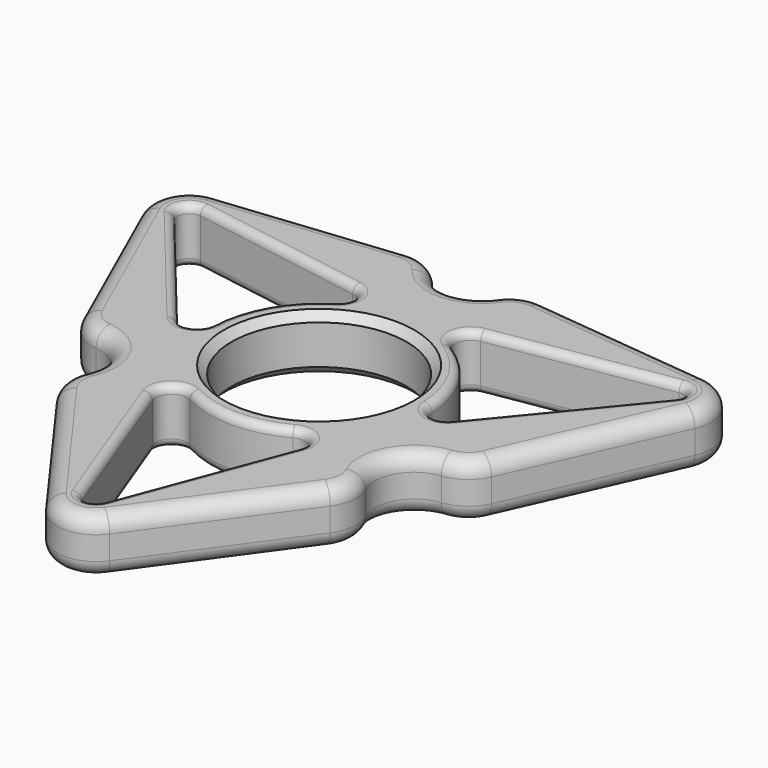
from build123d import *

# Parameters (mm, degrees)
F1_DEPTH = 7
F2_R     = 11.15
F3_DEPTH = 7.001
F4_R     = 5
F6_DEPTH = 7.001
F8_R     = 2
F9_DEPTH = 7.0010001
F10_R    = 1
F11_SIZE = 1


with BuildPart() as f1:
    # F0 (on Top) → F1 (new body)
    with BuildSketch(Plane.XY):
        Polygon((0, 26), (-38.1051177665, 22), (38.1051177665, 22), align=None)
        Polygon((38.1051177665, 22), (-38.1051177665, 22), (0, -44), align=None)
        Polygon((0, -44), (-38.1051177665, 22), (-22.5166604984, -13), align=None)
        Polygon((22.5166604984, -13), (38.1051177665, 22), (0, -44), align=None)
    extrude(amount=F1_DEPTH)

    # F2 (on face) → F3 (cut, through all)
    with BuildSketch(Plane.XY.offset(7)):
        Circle(F2_R)
    extrude(amount=-F3_DEPTH, mode=Mode.SUBTRACT)

    # F4
    f4_edges = [f1.edges().sort_by_distance(p)[0] for p in [
        (0, -44, 3.5),
        (-38.105118, 22, 3.5),
        (38.105118, 22, 3.5),
    ]]
    fillet(f4_edges, radius=F4_R)

    # F5 (on face) → F6 (cut, through all)
    with BuildSketch(Plane.XY.offset(7)):
        with BuildLine():
            ThreePointArc((-8.612929891, 25.095876838), (-6.0566570255, 24.6906622679), (-4.04546707, 23.0615997234))
            ThreePointArc((-4.04546707, 23.0615997234), (0, 21), (4.04546707, 23.0615997234))
            ThreePointArc((4.04546707, 23.0615997234), (6.0566570255, 24.6906622679), (8.612929891, 25.095876838))
            Line((8.612929891, 25.095876838), (0, 26))
            Line((0, 26), (-8.612929891, 25.095876838))
        make_face()
        with BuildLine():
            Line((-22.5166604984, -13), (-17.4272019264, -20.0069545056))
            ThreePointArc((-17.4272019264, -20.0069545056), (-18.3544122475, -17.5905499801), (-17.9491976774, -15.0342771145))
            ThreePointArc((-17.9491976774, -15.0342771145), (-18.1865334795, -10.5), (-21.9946647474, -8.0273226089))
            ThreePointArc((-21.9946647474, -8.0273226089), (-24.411069273, -7.1001122878), (-26.0401318175, -5.0889223323))
            Line((-26.0401318175, -5.0889223323), (-22.5166604984, -13))
        make_face()
        with BuildLine():
            Line((22.5166604984, -13), (26.0401318175, -5.0889223323))
            ThreePointArc((26.0401318175, -5.0889223323), (24.411069273, -7.1001122878), (21.9946647474, -8.0273226089))
            ThreePointArc((21.9946647474, -8.0273226089), (18.1865334795, -10.5), (17.9491976774, -15.0342771145))
            ThreePointArc((17.9491976774, -15.0342771145), (18.3544122475, -17.5905499801), (17.4272019264, -20.0069545056))
            Line((17.4272019264, -20.0069545056), (22.5166604984, -13))
        make_face()
    extrude(amount=-F6_DEPTH, mode=Mode.SUBTRACT)

    # F8
    f8_edges = [f1.edges().sort_by_distance(p)[0] for p in [
        (-35.067074, 20.245985, 0),
        (-31.258943, 22.718662, 3.5),
        (-35.30441, 15.711707, 3.5),
        (-35.067074, 20.245985, 7),
        (-30.672271, 5.311393, 0),
        (-26.040132, -5.088922, 3.5),
        (-30.672271, 5.311393, 7),
        (-24.411069, -7.100112, 7),
        (-24.411069, -7.100112, 0),
        (-21.994665, -8.027323, 3.5),
        (-18.186533, -10.5, 7),
        (-18.186533, -10.5, 0),
        (-17.949198, -15.034277, 3.5),
        (-18.354412, -17.59055, 7),
        (-18.354412, -17.59055, 0),
        (-17.427202, -20.006955, 3.5),
        (-10.736334, -29.218662, 0),
        (-4.045467, -38.430369, 3.5),
        (-10.736334, -29.218662, 7),
        (0, -40.491969, 0),
        (4.045467, -38.430369, 3.5),
        (0, -40.491969, 7),
        (10.736334, -29.218662, 0),
        (17.427202, -20.006955, 3.5),
        (10.736334, -29.218662, 7),
        (18.354412, -17.59055, 7),
        (18.354412, -17.59055, 0),
        (17.949198, -15.034277, 3.5),
        (18.186533, -10.5, 7),
        (18.186533, -10.5, 0),
        (21.994665, -8.027323, 3.5),
        (24.411069, -7.100112, 7),
        (24.411069, -7.100112, 0),
        (26.040132, -5.088922, 3.5),
        (30.672271, 5.311393, 0),
        (35.30441, 15.711707, 3.5),
        (30.672271, 5.311393, 7),
        (35.067074, 20.245985, 0),
        (31.258943, 22.718662, 3.5),
        (35.067074, 20.245985, 7),
        (19.935936, 23.907269, 0),
        (8.61293, 25.095877, 3.5),
        (19.935936, 23.907269, 7),
        (6.056657, 24.690662, 7),
        (6.056657, 24.690662, 0),
        (4.045467, 23.0616, 3.5),
        (0, 21, 7),
        (0, 21, 0),
        (-4.045467, 23.0616, 3.5),
        (-6.056657, 24.690662, 7),
        (-6.056657, 24.690662, 0),
        (-8.61293, 25.095877, 3.5),
        (-19.935936, 23.907269, 0),
        (-19.935936, 23.907269, 7),
    ]]
    fillet(f8_edges, radius=F8_R)

    # F7 (on face) → F9 (cut, through all)
    with BuildSketch(Plane.XY.offset(7)):
        with BuildLine():
            Line((-9.3757335028, -14.8356200168), (-1.4038914618, -36.020257742))
            ThreePointArc((-1.4038914618, -36.020257742), (0, -36.991969219), (1.4038914618, -36.020257742))
            Line((1.4038914618, -36.020257742), (9.3757335028, -14.8356200168))
            ThreePointArc((9.3757335028, -14.8356200168), (8.8245705538, -12.6293126314), (6.5658934429, -12.3648309045))
            ThreePointArc((6.5658934429, -12.3648309045), (0, -14), (-6.5658934429, -12.3648309045))
            ThreePointArc((-6.5658934429, -12.3648309045), (-8.8245705538, -12.6293126314), (-9.3757335028, -14.8356200168))
        make_face()
        with BuildLine():
            ThreePointArc((7.4253109553, 11.8686459724), (12.124355653, 7), (13.9912043982, 0.4961849321))
            ThreePointArc((13.9912043982, 0.4961849321), (15.3495908481, -1.3276459614), (17.5358905669, -0.7018133841))
            Line((17.5358905669, -0.7018133841), (31.8964039863, 16.794323201))
            ThreePointArc((31.8964039863, 16.794323201), (32.0359850796, 18.4959846095), (30.4925125246, 19.2259345411))
            Line((30.4925125246, 19.2259345411), (8.1601570641, 15.537433401))
            ThreePointArc((8.1601570641, 15.537433401), (6.5250202942, 13.9569585928), (7.4253109553, 11.8686459724))
        make_face()
        with BuildLine():
            ThreePointArc((-13.9912043982, 0.4961849321), (-12.124355653, 7), (-7.4253109553, 11.8686459724))
            ThreePointArc((-7.4253109553, 11.8686459724), (-6.5250202942, 13.9569585928), (-8.1601570641, 15.537433401))
            Line((-8.1601570641, 15.537433401), (-30.4925125246, 19.2259345411))
            ThreePointArc((-30.4925125246, 19.2259345411), (-32.0359850796, 18.4959846095), (-31.8964039863, 16.794323201))
            Line((-31.8964039863, 16.794323201), (-17.5358905669, -0.7018133841))
            ThreePointArc((-17.5358905669, -0.7018133841), (-15.3495908481, -1.3276459614), (-13.9912043982, 0.4961849321))
        make_face()
    extrude(amount=-F9_DEPTH, mode=Mode.SUBTRACT)

    # F10
    f10_edges = [f1.edges().sort_by_distance(p)[0] for p in [
        (32.035985, 18.495985, 7),
        (30.492513, 19.225935, 3.5),
        (32.035985, 18.495985, 0),
        (31.896404, 16.794323, 3.5),
        (19.326335, 17.381684, 7),
        (8.160157, 15.537433, 3.5),
        (19.326335, 17.381684, 0),
        (-19.326335, 17.381684, 7),
        (-30.492513, 19.225935, 3.5),
        (-19.326335, 17.381684, 0),
        (-8.160157, 15.537433, 3.5),
        (-6.52502, 13.956959, 7),
        (-6.52502, 13.956959, 0),
        (-7.425311, 11.868646, 3.5),
        (-12.124356, 7, 7),
        (-12.124356, 7, 0),
        (-13.991204, 0.496185, 3.5),
        (24.716147, 8.046255, 7),
        (24.716147, 8.046255, 0),
        (17.535891, -0.701813, 3.5),
        (0, -14, 7),
        (-6.565893, -12.364831, 3.5),
        (0, -14, 0),
        (6.565893, -12.364831, 3.5),
        (8.824571, -12.629313, 7),
        (8.824571, -12.629313, 0),
        (9.375734, -14.83562, 3.5),
        (5.389812, -25.427939, 7),
        (5.389812, -25.427939, 0),
        (1.403891, -36.020258, 3.5),
        (-24.716147, 8.046255, 7),
        (-17.535891, -0.701813, 3.5),
        (-24.716147, 8.046255, 0),
        (-31.896404, 16.794323, 3.5),
        (12.124356, 7, 7),
        (13.991204, 0.496185, 3.5),
        (12.124356, 7, 0),
        (7.425311, 11.868646, 3.5),
        (6.52502, 13.956959, 7),
        (6.52502, 13.956959, 0),
        (-5.389812, -25.427939, 7),
        (-1.403891, -36.020258, 3.5),
        (-5.389812, -25.427939, 0),
        (-9.375734, -14.83562, 3.5),
        (-32.035985, 18.495985, 7),
        (-32.035985, 18.495985, 0),
        (-8.824571, -12.629313, 7),
        (-8.824571, -12.629313, 0),
        (-15.349591, -1.327646, 7),
        (-15.349591, -1.327646, 0),
        (15.349591, -1.327646, 7),
        (15.349591, -1.327646, 0),
        (0, -36.991969, 7),
        (0, -36.991969, 0),
    ]]
    fillet(f10_edges, radius=F10_R)

    # F11
    f11_edges = [f1.edges().sort_by_distance(p)[0] for p in [
        (-11.15, 0, 7),
        (11.15, 0, 3.5),
        (-11.15, 0, 0),
    ]]
    chamfer(f11_edges, length=F11_SIZE)


solid = f1.part
